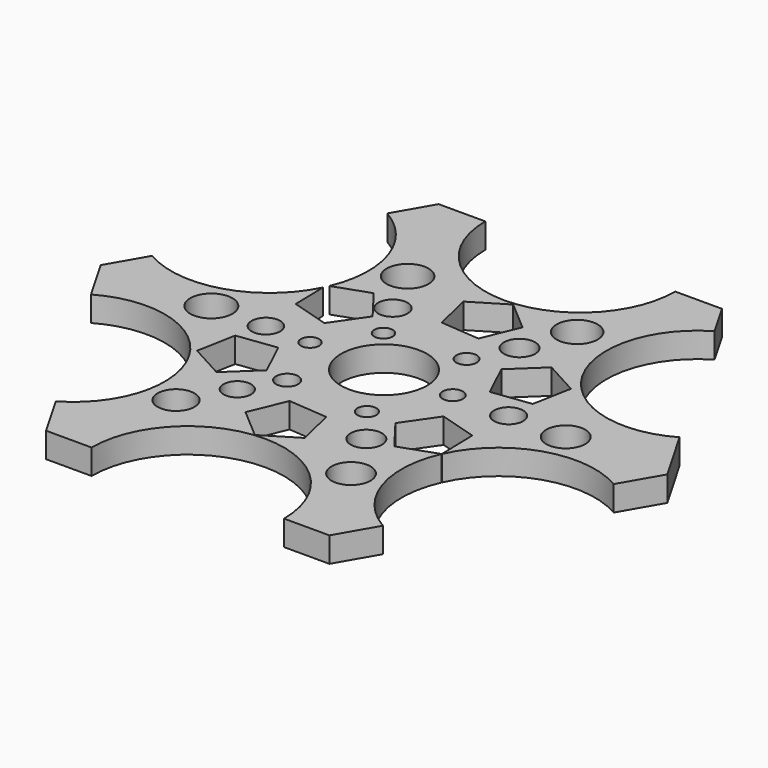
from build123d import *

# Parameters (mm, degrees)
F1_DEPTH = 3.81
F2_R     = 14.4183886526
F2_R_2   = 14.9688015553
F2_R_3   = 13.8673627738
F2_R_4   = 14.6123692091
F2_R_5   = 14.6887640566
F2_R_6   = 13.7656196585
F2_R_7   = 6.5271201163
F2_R_8   = 3.1776406916
F2_R_9   = 2.2295804693
F2_R_10  = 1.3934876863
F2_R_11  = 3.1159324266
F2_R_12  = 2.3730237654
F2_R_13  = 1.5391584656
F2_R_14  = 2.962596298
F2_R_15  = 2.2032977608
F2_R_16  = 2.9560338706
F2_R_17  = 2.3730243841
F2_R_18  = 1.4346833287
F2_R_19  = 1.5391578396
F2_R_20  = 2.8008757636
F2_R_21  = 2.094873282
F2_R_22  = 1.672185105
F2_R_23  = 3.2080502358
F2_R_24  = 2.1677587647
F2_R_25  = 1.3934881637
F3_DEPTH = 3.811
F4_SCALE = 0.6
F6_DEPTH = 2.287


with BuildPart() as f1:
    # F0 (on Top) → F1 (new body)
    with BuildSketch(Plane.XY):
        Polygon((21.5040096467, 37.2460372746), (-21.5040096467, 37.2460372746), (-43.0080192935, 0), (-21.5040096467, -37.2460372746), (21.5040096467, -37.2460372746), (43.0080192935, 0), align=None)
    extrude(amount=F1_DEPTH)

    # F2 (on face) → F3 (cut, through all)
    with BuildSketch(Plane.XY.offset(3.81)):
        with Locations((0, 37.2460372746)):
            Circle(F2_R)
        with Locations((-32.2560144701, 18.6230186373)):
            Circle(F2_R_2)
        with Locations((-32.2560144701, -18.6230186373)):
            Circle(F2_R_3)
        with Locations((0, -37.2460372746)):
            Circle(F2_R_4)
        with Locations((32.2560144701, -18.6230186373)):
            Circle(F2_R_5)
        with Locations((31.3001683758, 20.2785926369)):
            Circle(F2_R_6)
        Circle(F2_R_7)
        with Locations((-12.8094833344, 20.49517259)):
            Circle(F2_R_8)
        with Locations((-9.065172635, 13.0065521225)):
            Circle(F2_R_9)
        with Locations((-5.9120692313, 7.2915516794)):
            Circle(F2_R_10)
        with Locations((11.8241384625, 21.8746569008)):
            Circle(F2_R_11)
        with Locations((9.0651735663, 14.3860345706)):
            Circle(F2_R_12)
        with Locations((5.9120692313, 8.2768965513)):
            Circle(F2_R_13)
        with Locations((27.5896564126, 0)):
            Circle(F2_R_14)
        with Locations((18.9186222851, 0)):
            Circle(F2_R_15)
        with Locations((13.5977584869, -23.2541374862)):
            Circle(F2_R_16)
        with Locations((9.4593111426, -15.1743106544)):
            Circle(F2_R_17)
        with Locations((5.1237940788, -9.6563789994)):
            Circle(F2_R_18)
        with Locations((10.4446560144, 0)):
            Circle(F2_R_19)
        with Locations((-14.3860345706, -21.4805174619)):
            Circle(F2_R_20)
        with Locations((-10.4446560144, -14.7801730782)):
            Circle(F2_R_21)
        with Locations((-7.2915512137, -9.2622414231)):
            Circle(F2_R_22)
        with Locations((-26.2101721019, 0)):
            Circle(F2_R_23)
        with Locations((-17.9332755506, 0)):
            Circle(F2_R_24)
        with Locations((-11.2329311669, 0)):
            Circle(F2_R_25)
    extrude(amount=-F3_DEPTH, mode=Mode.SUBTRACT)


with BuildPart() as f1_1:
    # F4: moved
    add(f1.part.scale(F4_SCALE))

    # F5 (on face) → F6 (cut, through all)
    with BuildSketch(Plane.XY.offset(2.286)):
        Polygon((2.2348568425, 7.9494534601), (3.6136271371, 11.252985526), (0.8978448914, 13.585121549), (-2.1593711371, 11.7229288117), (-1.333052308, 8.2398943834), align=None)
        with BuildLine():
            ThreePointArc((-11.0931667862, 7.648402428), (-11.1968162546, 7.4148027366), (-11.3070701633, 7.1842466615))
            Line((-11.3070701633, 7.1842466615), (-11.2320397263, 3.9913941449))
            Line((-11.2320397263, 3.9913941449), (-7.8024840145, 2.9654900284))
            Line((-7.8024840145, 2.9654900284), (-5.7670002214, 5.9101695295))
            Line((-5.7670002214, 5.9101695295), (-7.9385577654, 8.7559856636))
            Line((-7.9385577654, 8.7559856636), (-11.0931667862, 7.648402428))
        make_face()
        Polygon((-6.4694317065, -5.274404355), (-8.0018570639, -2.0392839306), (-11.5521849025, -2.4969998625), (-12.2139828207, -6.0150042899), (-9.0726685891, -7.7315346668), align=None)
        Polygon((-2.2348568425, -7.9494534601), (-3.6136271371, -11.252985526), (-0.8978448914, -13.585121549), (2.1593711371, -11.7229288117), (1.333052308, -8.2398943834), align=None)
        with BuildLine():
            Line((5.7670002214, -5.9101695295), (7.9385577654, -8.7559856636))
            Line((7.9385577654, -8.7559856636), (11.3097934002, -7.5723448233))
            ThreePointArc((11.3097934002, -7.5723448233), (11.3128298264, -7.5655706667), (11.3158719575, -7.5587990702))
            Line((11.3158719575, -7.5587990702), (11.2320397263, -3.9913941449))
            Line((11.2320397263, -3.9913941449), (7.8024840145, -2.9654900284))
            Line((7.8024840145, -2.9654900284), (5.7670002214, -5.9101695295))
        make_face()
        Polygon((8.0018570639, 2.0392839306), (11.5521849025, 2.4969998625), (12.2139828207, 6.0150042899), (9.0726685891, 7.7315346668), (6.4694317065, 5.274404355), align=None)
    extrude(amount=-F6_DEPTH, mode=Mode.SUBTRACT)


solid = f1_1.part
